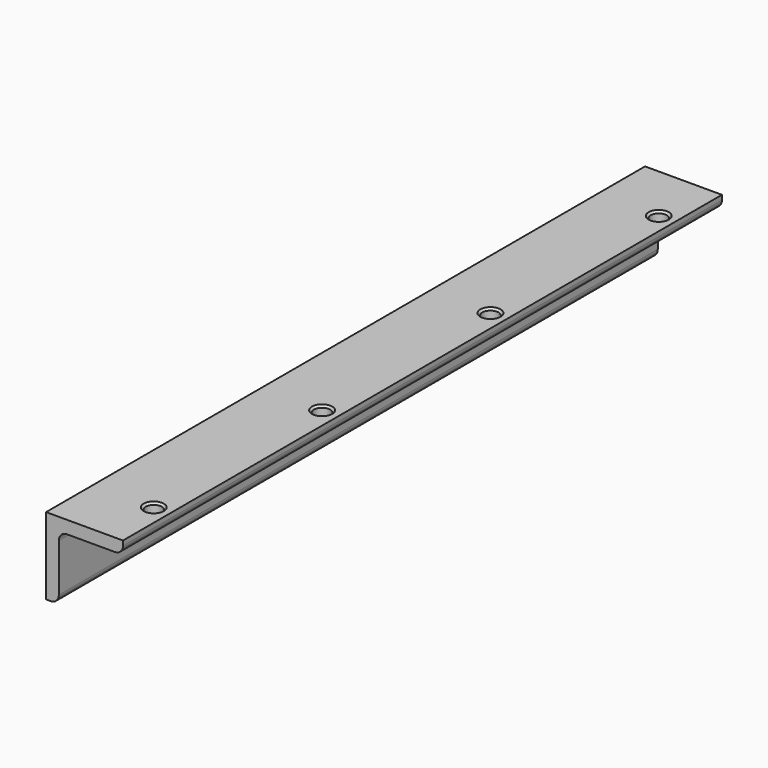
from build123d import *

# Parameters (mm, degrees)
F1_DEPTH       = 370
F2_R           = 4
F3_R           = 4
F5_D           = 8
F5_CSINK_D     = 10
F5_CSINK_ANGLE = 90
F7_D           = 9
F7_CSINK_D     = 10
F7_CSINK_ANGLE = 90


with BuildPart() as f1:
    # F0 (on Front) → F1 (new body)
    with BuildSketch(Plane.XZ):
        Polygon((38, 0), (0, 0), (0, -38), (6.3, -38), (6.3, -6.3), (38, -6.3), align=None)
    extrude(amount=F1_DEPTH)

    # F2
    f2_edges = [f1.edges().sort_by_distance(p)[0] for p in [
        (6.3, -185, -38),
        (38, -185, -6.3),
    ]]
    fillet(f2_edges, radius=F2_R)

    # F3
    f3_edges = [f1.edges().sort_by_distance(p)[0] for p in [
        (6.3, -185, -6.3),
    ]]
    fillet(f3_edges, radius=F3_R)

    # F5 (through all)
    with Locations(Plane.XY):
        with Locations((30, -341), (30, -237), (30, -133), (30, -29)):
            CounterSinkHole(F5_D / 2, F5_CSINK_D / 2, counter_sink_angle=F5_CSINK_ANGLE)

    # F7 (through all)
    with Locations(Plane(origin=(0, 0, 0), x_dir=(0, -1, 0), z_dir=(-1, 0, 0))):
        with Locations((310, -24), (60, -24.86)):
            CounterSinkHole(F7_D / 2, F7_CSINK_D / 2, counter_sink_angle=F7_CSINK_ANGLE)


solid = f1.part
